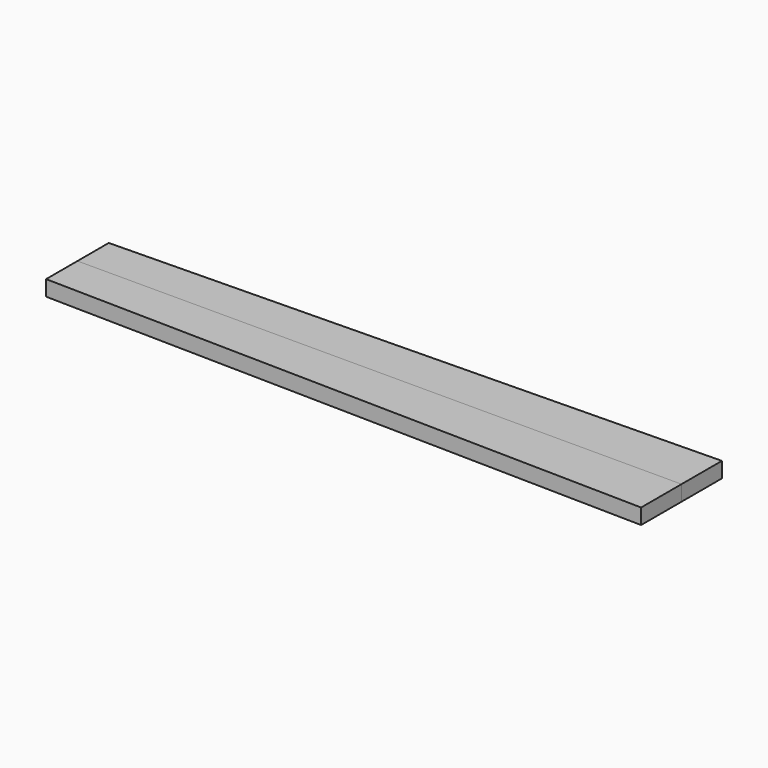
from build123d import *

# Parameters (mm, degrees)
F1_DEPTH = 7.5


with BuildPart() as f1:
    # F0 (on Top) → F1 (new body)
    with BuildSketch(Plane.XY):
        Polygon((0, 0), (-293, 0), (-293, -19), (0, -24.5), align=None)
    extrude(amount=-F1_DEPTH)


with BuildPart() as f2_1:
    # F2: instance of F1
    add(f1.part.mirror(Plane.XZ))


solid = Compound([f1.part, f2_1.part])
